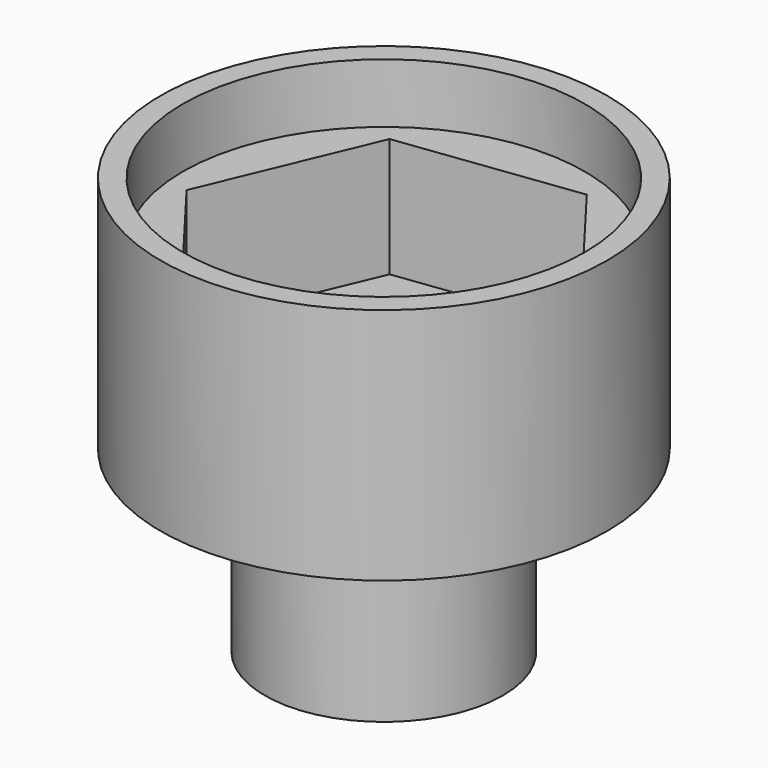
from build123d import *

# Parameters (mm, degrees)
F0_R     = 7.5
F1_DEPTH = 8
F2_R     = 6.75
F3_DEPTH = 2
F5_DEPTH = 4
F6_R     = 4
F7_DEPTH = 6
F8_W     = 5
F8_H     = 3
F9_DEPTH = 6


with BuildPart() as f1:
    # F0 (on Top) → F1 (new body)
    with BuildSketch(Plane.XY):
        Circle(F0_R)
    extrude(amount=F1_DEPTH)

    # F2 (on face) → F3 (cut)
    with BuildSketch(Plane.XY.offset(8)):
        Circle(F2_R)
    extrude(amount=-F3_DEPTH, mode=Mode.SUBTRACT)

    # F4 (on face) → F5 (cut)
    with BuildSketch(Plane.XY.offset(6)):
        Polygon((6.013669, 0.765369), (2.344005, 5.590674), (-3.669664, 4.825305), (-6.013669, -0.765369), (-2.344005, -5.590674), (3.669664, -4.825305), align=None)
    extrude(amount=-F5_DEPTH, mode=Mode.SUBTRACT)

    # F6 (on face) → F7 (join)
    with BuildSketch(Plane(origin=(0, 0, 0), x_dir=(1, 0, 0), z_dir=(0, 0, -1))):
        Circle(F6_R)
    extrude(amount=F7_DEPTH)

    # F8 (on face) → F9 (cut)
    with BuildSketch(Plane(origin=(0, 0, -6), x_dir=(1, 0, 0), z_dir=(0, 0, -1))):
        Rectangle(F8_W, F8_H)
    extrude(amount=-F9_DEPTH, mode=Mode.SUBTRACT)


solid = f1.part
